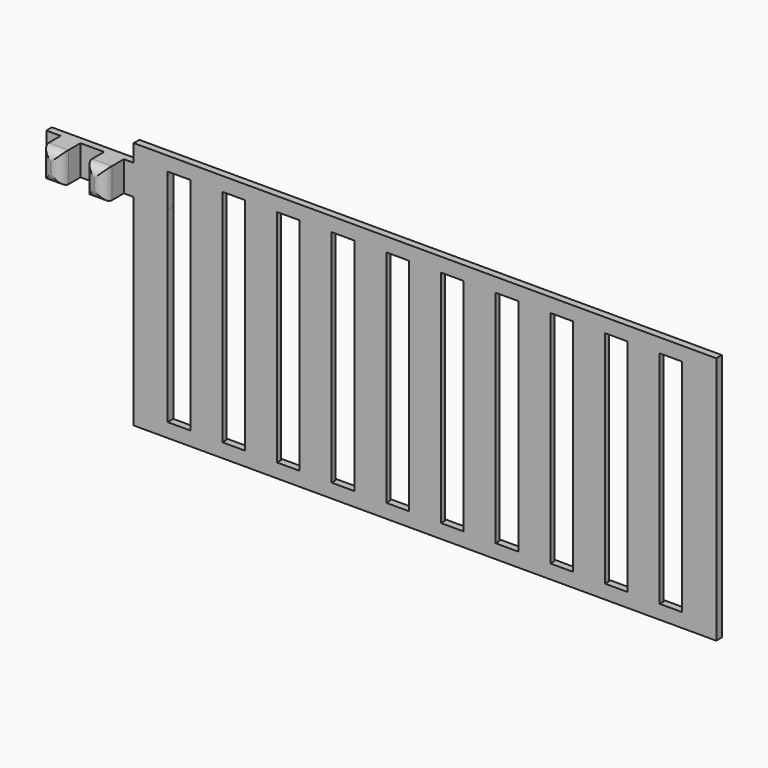
from build123d import *

# Parameters (mm, degrees)
F0_W     = 147.6248
F0_H     = 62.992
F0_W_2   = 130.3528
F0_H_2   = 55.88
F1_DEPTH = 1.778
F2_W     = 8.128
F2_H     = 55.88
F3_DEPTH = 1.27
F4_W     = 30.776053
F4_H     = 7.62
F5_DEPTH = 1.778
F7_W     = 5.00126
F7_H     = 7.62
F7_W_2   = 5.0038
F8_DEPTH = 6.223
F9_R     = 2.4384
F10_R    = 2.4384


with BuildPart() as f1:
    # F0 (on Front) → F1 (new body)
    with BuildSketch(Plane.XZ):
        Rectangle(F0_W, F0_H)
        Rectangle(F0_W_2, F0_H_2, mode=Mode.SUBTRACT)
    extrude(amount=F1_DEPTH)

    # F2 (on face) → F3 (join)
    with BuildSketch(Plane.XZ.offset(1.778)):
        with Locations((-55.39232, 0)):
            Rectangle(F2_W, F2_H)
        with Locations((-41.54424, 0)):
            Rectangle(F2_W, F2_H)
        with Locations((-27.69616, 0)):
            Rectangle(F2_W, F2_H)
        with Locations((-13.84808, 0)):
            Rectangle(F2_W, F2_H)
        Rectangle(F2_W, F2_H)
        with Locations((13.84808, 0)):
            Rectangle(F2_W, F2_H)
        with Locations((27.69616, 0)):
            Rectangle(F2_W, F2_H)
        with Locations((41.54424, 0)):
            Rectangle(F2_W, F2_H)
        with Locations((55.39232, 0)):
            Rectangle(F2_W, F2_H)
    extrude(amount=-F3_DEPTH)

    # F4 (on face) → F5 (join)
    with BuildSketch(Plane.XZ.offset(1.778)):
        with Locations((-80.564426, 23.279527)):
            Rectangle(F4_W, F4_H)
    extrude(amount=-F5_DEPTH)

    # F7 (on face) → F8 (join)
    with BuildSketch(Plane.XZ.offset(1.778)):
        with Locations((-89.788674, 23.279527)):
            Rectangle(F7_W, F7_H)
        with Locations((-78.791744, 23.279527)):
            Rectangle(F7_W_2, F7_H)
    extrude(amount=F8_DEPTH)

    # F9
    f9_edges = [f1.edges().sort_by_distance(p)[0] for p in [
        (-87.288044, -8.001, 23.279527),
        (-89.788674, -8.001, 27.089527),
        (-92.289304, -8.001, 23.279527),
        (-89.788674, -8.001, 19.469527),
    ]]
    fillet(f9_edges, radius=F9_R)

    # F10
    f10_edges = [f1.edges().sort_by_distance(p)[0] for p in [
        (-78.791744, -8.001, 27.089527),
        (-81.293644, -8.001, 23.279527),
        (-78.791744, -8.001, 19.469527),
        (-76.289844, -8.001, 23.279527),
    ]]
    fillet(f10_edges, radius=F10_R)


solid = f1.part
